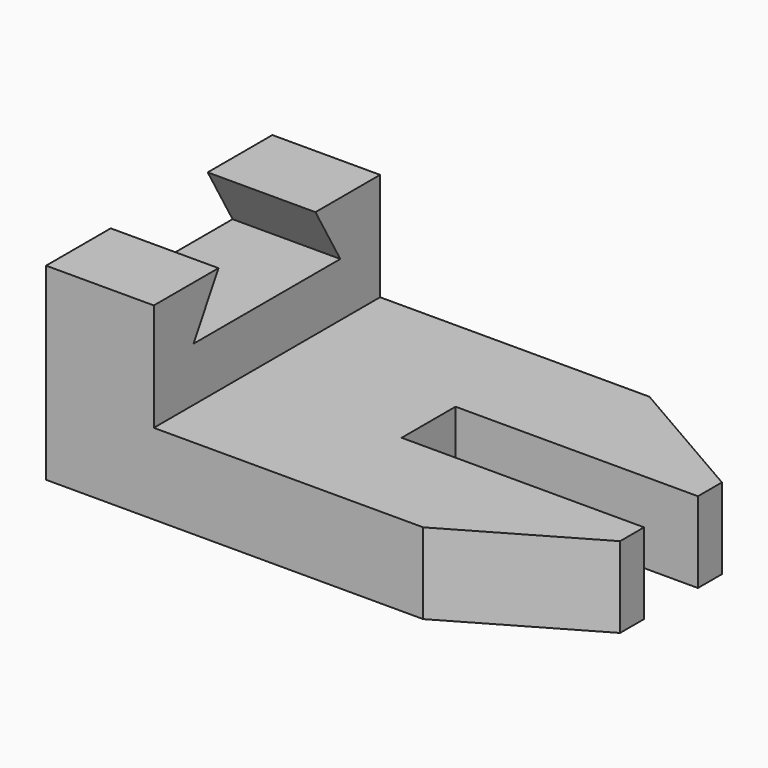
from build123d import *

# Parameters (mm, degrees)
F0_W     = 120.65
F0_H     = 44.45
F1_DEPTH = 66.675
F2_W     = 95.25
F2_H     = 25.4
F3_DEPTH = 66.676
F4_W     = 57.15
F4_H     = 15.875
F5_DEPTH = 19.051
F7_DEPTH = 19.051
F9_DEPTH = 25.401


with BuildPart() as f1:
    # F0 (on Front) → F1 (new body)
    with BuildSketch(Plane.XZ):
        with Locations((-4.2862482369, -12.2960915925)):
            Rectangle(F0_W, F0_H)
    extrude(amount=-F1_DEPTH)

    # F2 (on face) → F3 (cut, through all)
    with BuildSketch(Plane.XZ):
        with Locations((8.4137517631, -2.7710915925)):
            Rectangle(F2_W, F2_H)
    extrude(amount=-F3_DEPTH, mode=Mode.SUBTRACT)

    # F4 (on face) → F5 (cut, through all)
    with BuildSketch(Plane.XY.offset(-15.4710915925)):
        with Locations((27.4637517631, 33.3375)):
            Rectangle(F4_W, F4_H)
    extrude(amount=-F5_DEPTH, mode=Mode.SUBTRACT)

    # F6 (on face) → F7 (cut, through all)
    with BuildSketch(Plane.XY.offset(-15.4710915925)):
        Polygon((56.0387517631, 66.675), (24.2887517631, 66.675), (56.0387517631, 48.3441289532), align=None)
        Polygon((56.0387517631, 0), (56.0387517631, 18.3308710468), (24.2887517631, 0), align=None)
    extrude(amount=-F7_DEPTH, mode=Mode.SUBTRACT)

    # F8 (on face) → F9 (cut, through all)
    with BuildSketch(Plane.YZ.offset(-39.2112482369)):
        Polygon((19.05, 9.9289084075), (11.7176515813, -2.7710915925), (54.9573484187, -2.7710915925), (47.625, 9.9289084075), align=None)
    extrude(amount=-F9_DEPTH, mode=Mode.SUBTRACT)


solid = f1.part
